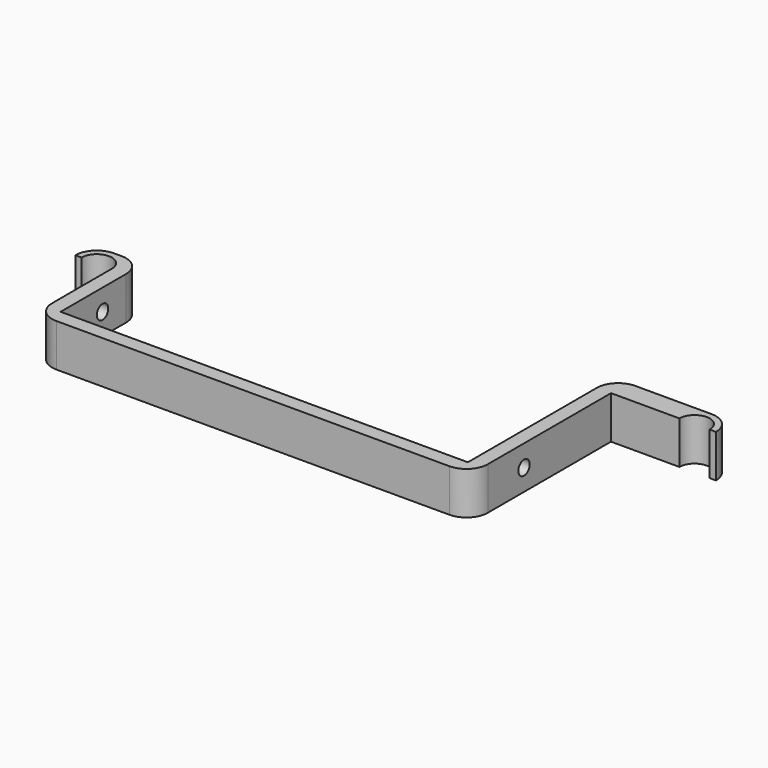
from build123d import *

# Parameters (mm, degrees)
F1_DEPTH = 12
F2_R     = 2
F3_DEPTH = 132.551


with BuildPart() as f1:
    # F0 (on Top) → F1 (new body)
    with BuildSketch(Plane.XY):
        with BuildLine():
            ThreePointArc((-4.25, 0), (0, 4.25), (4.25, 0))
            Line((4.25, 0), (4.25, -20.9875))
            ThreePointArc((4.25, -20.9875), (6.007359, -25.230141), (10.25, -26.9875))
            Line((10.25, -26.9875), (120.55, -26.9875))
            ThreePointArc((120.55, -26.9875), (124.792641, -25.230141), (126.55, -20.9875))
            Line((126.55, -20.9875), (126.55, 22.225))
            Line((126.55, 22.225), (145.75, 22.225))
            ThreePointArc((145.75, 22.225), (150, 26.475), (154.25, 22.225))
            Line((154.25, 22.225), (156, 22.225))
            ThreePointArc((156, 22.225), (154.242641, 26.467641), (150, 28.225))
            Line((150, 28.225), (128.55, 28.225))
            ThreePointArc((128.55, 28.225), (124.307359, 26.467641), (122.55, 22.225))
            Line((122.55, 22.225), (122.55, -22.9875))
            Line((122.55, -22.9875), (8.25, -22.9875))
            Line((8.25, -22.9875), (8.25, 0))
            ThreePointArc((8.25, 0), (6.492641, 4.242641), (2.25, 6))
            Line((2.25, 6), (0, 6))
            ThreePointArc((0, 6), (-4.242641, 4.242641), (-6, 0))
            Line((-6, 0), (-4.25, 0))
        make_face()
    extrude(amount=F1_DEPTH)

    # F2 (on face) → F3 (cut, through all)
    with BuildSketch(Plane.YZ.offset(126.55)):
        with Locations((-8.2875, 6)):
            Circle(F2_R)
    extrude(amount=-F3_DEPTH, mode=Mode.SUBTRACT)


solid = f1.part
